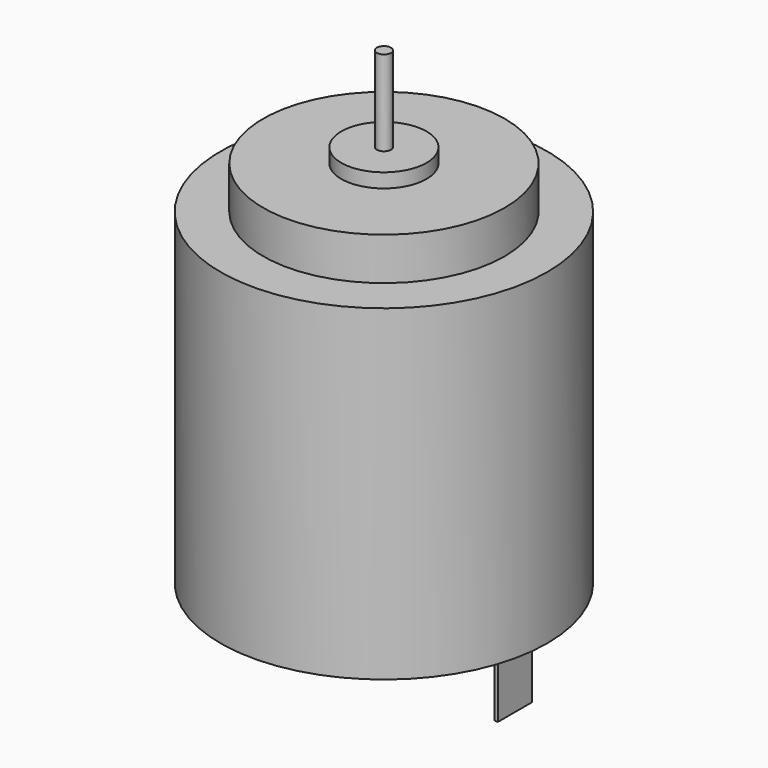
from build123d import *

# Parameters (mm, degrees)
F0_R      = 11.5
F1_DEPTH  = 23
F2_R      = 8.5
F3_DEPTH  = 3
F4_R      = 3
F5_DEPTH  = 1
F6_R      = 0.5
F7_DEPTH  = 6
F8_R      = 3.5
F9_DEPTH  = 1
F10_R     = 0.5
F11_DEPTH = 0.5
F12_W     = 0.25
F12_H     = 3
F13_DEPTH = 5


with BuildPart() as f1:
    # F0 (on Top) → F1 (new body)
    with BuildSketch(Plane.XY):
        Circle(F0_R)
    extrude(amount=F1_DEPTH)

    # F2 (on face) → F3 (join)
    with BuildSketch(Plane.XY.offset(23)):
        Circle(F2_R)
    extrude(amount=F3_DEPTH)

    # F4 (on face) → F5 (join)
    with BuildSketch(Plane.XY.offset(26)):
        Circle(F4_R)
    extrude(amount=F5_DEPTH)

    # F6 (on face) → F7 (join)
    with BuildSketch(Plane.XY.offset(27)):
        Circle(F6_R)
    extrude(amount=F7_DEPTH)

    # F8 (on face) → F9 (join)
    with BuildSketch(Plane(origin=(0, 0, 0), x_dir=(1, 0, 0), z_dir=(0, 0, -1))):
        Circle(F8_R)
    extrude(amount=F9_DEPTH)

    # F10 (on face) → F11 (join)
    with BuildSketch(Plane(origin=(0, 0, -1), x_dir=(1, 0, 0), z_dir=(0, 0, -1))):
        Circle(F10_R)
    extrude(amount=F11_DEPTH)

    # F12 (on face) → F13 (join)
    with BuildSketch(Plane(origin=(0, 0, 0), x_dir=(1, 0, 0), z_dir=(0, 0, -1))):
        with Locations((-7.9, 0)):
            Rectangle(F12_W, F12_H)
        with Locations((9.1, 0)):
            Rectangle(F12_W, F12_H)
    extrude(amount=F13_DEPTH)


solid = f1.part
